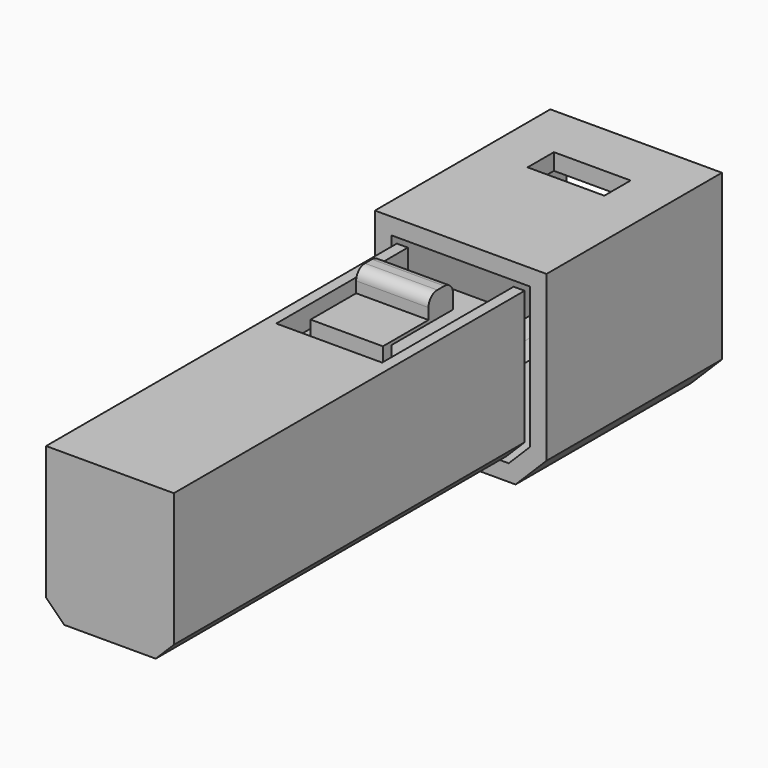
from build123d import *

# Parameters (mm, degrees)
F1_DEPTH  = 50.8
F3_DEPTH  = 101.6
F5_DEPTH  = 25.4
F7_DEPTH  = 5.08
F9_DEPTH  = 4.318
F10_W     = 8.382
F10_H     = 17.78
F10_H_2   = 2.54
F11_DEPTH = 0.762
F12_W     = 16.764
F12_H     = 7.112
F13_DEPTH = 5.08
F14_R     = 2.54


with BuildPart() as f1:
    # F0 (on Front) → F1 (new body)
    with BuildSketch(Plane.XZ):
        Polygon((-12.7, 0), (0, 0), (0, 3.81), (-11.121846, 3.81), (-13.598026, 6.286179), (-16.074205, 8.762359), (-16.074205, 11.265247), (-16.074205, 41.474205), (0, 41.474205), (0, 45.284205), (-19.884205, 45.284205), (-19.884205, 7.184205), align=None)
        Polygon((0, 3.81), (0, 0), (12.7, 0), (19.884205, 7.184205), (19.884205, 45.284205), (0, 45.284205), (0, 41.474205), (16.074205, 41.474205), (16.074205, 11.265247), (16.074205, 8.762359), (13.598026, 6.286179), (11.121846, 3.81), align=None)
    extrude(amount=F1_DEPTH)

    # F4 (on face) → F5 (cut)
    with BuildSketch(Plane.XY.offset(45.284205)):
        Polygon((8.89, -12.7), (0, -12.7), (-8.89, -12.7), (-8.89, -20.32), (0, -20.32), (8.89, -20.32), align=None)
    extrude(amount=-F5_DEPTH, mode=Mode.SUBTRACT)


with BuildPart() as f3:
    # F2 (on face) → F3 (new body)
    with BuildSketch(Plane.XZ.offset(50.8)):
        Polygon((0, 40.204205), (0, 5.08), (10.595795, 5.08), (14.804205, 9.28841), (14.804205, 40.204205), (4.39494, 40.204205), align=None)
        Polygon((-10.595795, 5.08), (0, 5.08), (0, 40.204205), (-4.39494, 40.204205), (-14.804205, 40.204205), (-14.804205, 9.28841), align=None)
    extrude(amount=F3_DEPTH)

    # F6 (on face) → F7 (cut)
    with BuildSketch(Plane.XY.offset(40.204205)):
        Polygon((12.264205, -50.8), (-12.264205, -50.8), (-12.264205, -88.9), (0, -88.9), (12.264205, -88.9), align=None)
    extrude(amount=-F7_DEPTH, mode=Mode.SUBTRACT)

    # F8 (on face) → F9 (join)
    with BuildSketch(Plane.XY.offset(35.124205)):
        Polygon((-8.382, -83.82), (0, -83.82), (8.382, -83.82), (8.382, -81.28), (0, -81.28), (-8.382, -81.28), align=None)
    extrude(amount=F9_DEPTH)

    # F10 (on face) → F11 (join)
    with BuildSketch(Plane.XY.offset(39.442205)):
        with Locations((-4.191, -72.39)):
            Rectangle(F10_W, F10_H)
        with Locations((4.191, -72.39)):
            Rectangle(F10_W, F10_H)
        with Locations((4.191, -82.55)):
            Rectangle(F10_W, F10_H_2)
        with Locations((-4.191, -82.55)):
            Rectangle(F10_W, F10_H_2)
    extrude(amount=F11_DEPTH)

    # F12 (on face) → F13 (join)
    with BuildSketch(Plane.XY.offset(40.204205)):
        with Locations((0, -67.056)):
            Rectangle(F12_W, F12_H)
    extrude(amount=F13_DEPTH)

    # F14
    f14_edges = [f3.edges().sort_by_distance(p)[0] for p in [
        (0, -63.5, 45.284205),
        (0, -70.612, 45.284205),
    ]]
    fillet(f14_edges, radius=F14_R)


solid = Compound([f1.part, f3.part])
